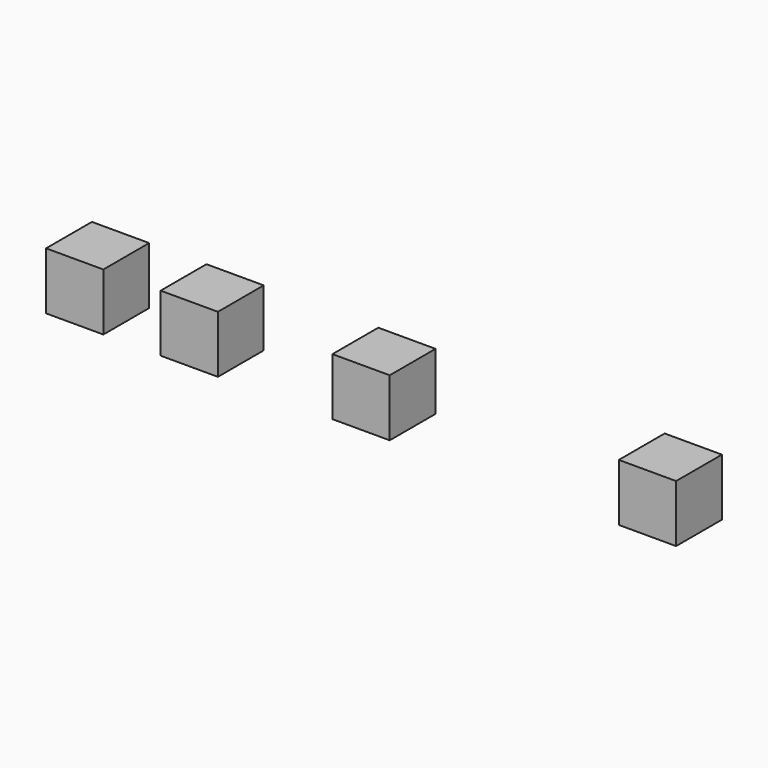
from build123d import *

# Parameters (mm, degrees)
F0_W     = 10
F0_H     = 10
F1_DEPTH = 10


with BuildPart() as f1:
    # F0 (on Top) → F1 (new body)
    with BuildSketch(Plane.XY):
        with Locations((-50, 0)):
            Rectangle(F0_W, F0_H)
        with Locations((-30, 0)):
            Rectangle(F0_W, F0_H)
        Rectangle(F0_W, F0_H)
        with Locations((50, 0)):
            Rectangle(F0_W, F0_H)
    extrude(amount=F1_DEPTH)


solid = f1.part
